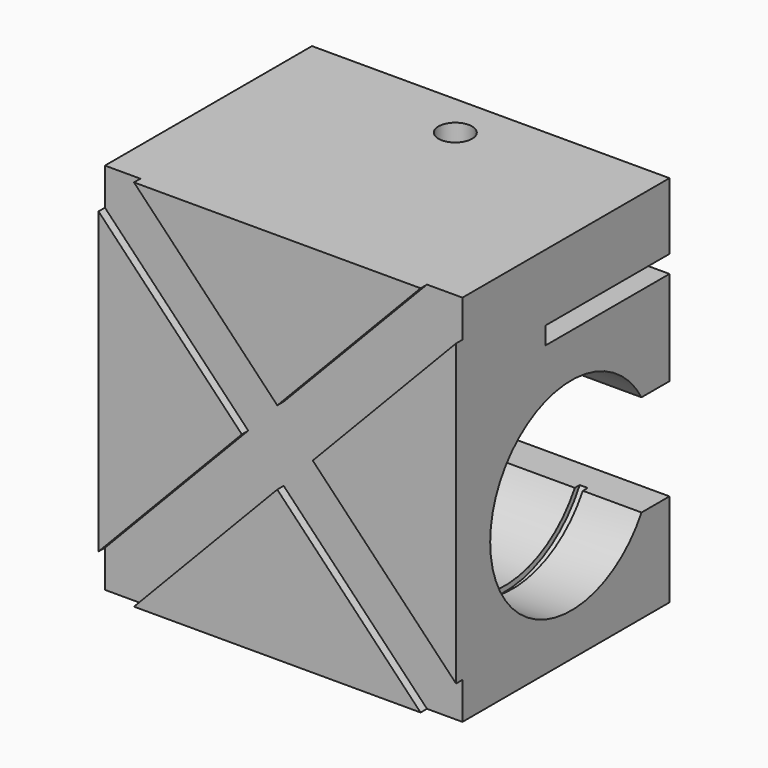
from build123d import *

# Parameters (mm, degrees)
F0_W      = 50
F0_H      = 70
F1_DEPTH  = 67
F2_R      = 19
F3_DEPTH  = 67
F5_R      = 20
F5_R_2    = 19
F6_DEPTH  = 1.5
F8_R      = 20
F8_R_2    = 19
F9_DEPTH  = 1.5
F11_DEPTH = 67
F12_W     = 29
F12_H     = 3.3
F13_DEPTH = 67
F15_D     = 6.3
F15_DEPTH = 13
F15_TIP   = 1.8927109499
F17_DEPTH = 1.5


with BuildPart() as f1:
    # F0 (on Right) → F1 (new body)
    with BuildSketch(Plane.YZ):
        with Locations((25, 35)):
            Rectangle(F0_W, F0_H)
    extrude(amount=F1_DEPTH)

    # F2 (on face) → F3 (cut, through all)
    with BuildSketch(Plane.YZ.offset(67)):
        with Locations((27, 27)):
            Circle(F2_R)
    extrude(amount=-F3_DEPTH, mode=Mode.SUBTRACT)

    # F5 (on offset) → F6 (cut)
    with BuildSketch(Plane.YZ.offset(54.5)):
        with Locations((27, 27)):
            Circle(F5_R)
        with Locations((27, 27)):
            Circle(F5_R_2, mode=Mode.SUBTRACT)
    extrude(amount=F6_DEPTH, mode=Mode.SUBTRACT)

    # F8 (on offset) → F9 (cut)
    with BuildSketch(Plane.YZ.offset(12.5)):
        with Locations((27, 27)):
            Circle(F8_R)
        with Locations((27, 27)):
            Circle(F8_R_2, mode=Mode.SUBTRACT)
    extrude(amount=-F9_DEPTH, mode=Mode.SUBTRACT)

    # F10 (on face) → F11 (cut, through all)
    with BuildSketch(Plane.YZ.offset(67)):
        with BuildLine():
            Line((50, 17.5), (50, 36.5))
            Line((50, 36.5), (43.4544826719, 36.5))
            ThreePointArc((43.4544826719, 36.5), (45.3525906995, 31.9175618569), (46, 27))
            ThreePointArc((46, 27), (45.3525906995, 22.0824381431), (43.4544826719, 17.5))
            Line((43.4544826719, 17.5), (50, 17.5))
        make_face()
    extrude(amount=-F11_DEPTH, mode=Mode.SUBTRACT)

    # F12 (on face) → F13 (cut, through all)
    with BuildSketch(Plane.YZ.offset(67)):
        with Locations((35.5, 55.85)):
            Rectangle(F12_W, F12_H)
    extrude(amount=-F13_DEPTH, mode=Mode.SUBTRACT)

    # F15
    with Locations(Plane.XY.offset(70)):
        with Locations((33.5, 41.7)):
            Hole(F15_D / 2, depth=F15_DEPTH)
            with Locations((0, 0, -(F15_DEPTH + F15_TIP / 2))):  # 118° drill point
                Cone(0, F15_D / 2, F15_TIP, mode=Mode.SUBTRACT)

    # F16 (on face) → F17 (cut)
    with BuildSketch(Plane.XZ):
        Polygon((33.5, 41.9418640507), (6.6443555914, 70), (0, 70), (0, 63.0581359493), (26.8556444086, 35), (0, 6.9418640507), (0, 0), (6.6443555914, 0), (33.5, 28.0581359493), (60.3556444086, 0), (67, 0), (67, 6.9418640507), (40.1443555914, 35), (67, 63.0581359493), (67, 70), (60.3556444086, 70), align=None)
    extrude(amount=-F17_DEPTH, mode=Mode.SUBTRACT)


solid = f1.part
